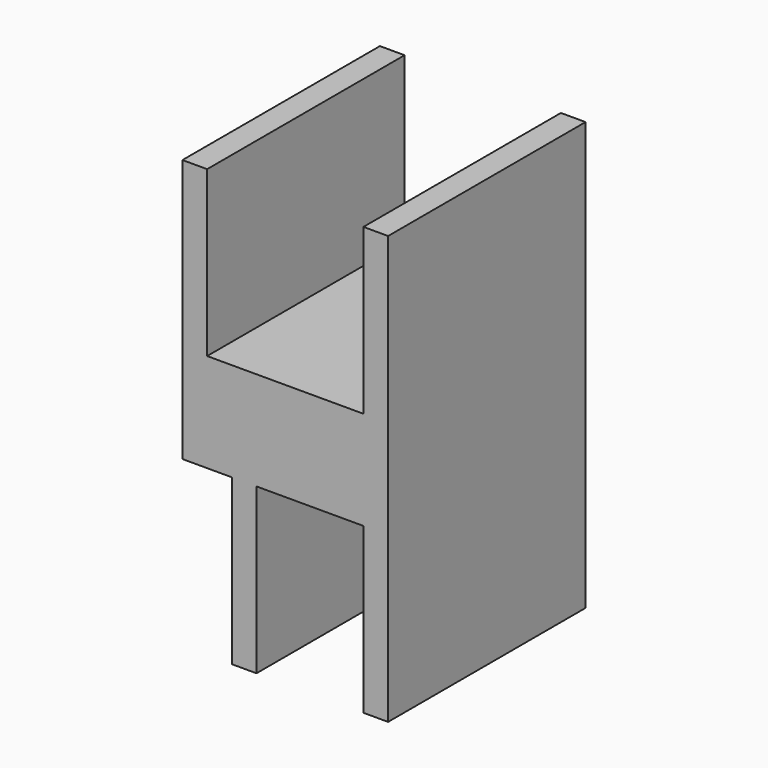
from build123d import *

# Parameters (mm, degrees)
F1_DEPTH      = 15
F1_DEPTH_BACK = 15


with BuildPart() as f1:
    # F0 (on Front) → F1 (new body, two sides)
    with BuildSketch(Plane.XZ) as f1_sk:
        Polygon((0, 20), (0, 0), (-13, 0), (-16, 0), (-19, 0), (-19, 20), (-22, 20), (-22, 0), (-22, -12), (-16, -12), (-16, -32), (-13, -32), (-13, -29.301528), (-13, -12), (0, -12), (0, -32), (3, -32), (3, 20), align=None)
    extrude(amount=F1_DEPTH)
    extrude(f1_sk.sketch, amount=-F1_DEPTH_BACK)


solid = f1.part
